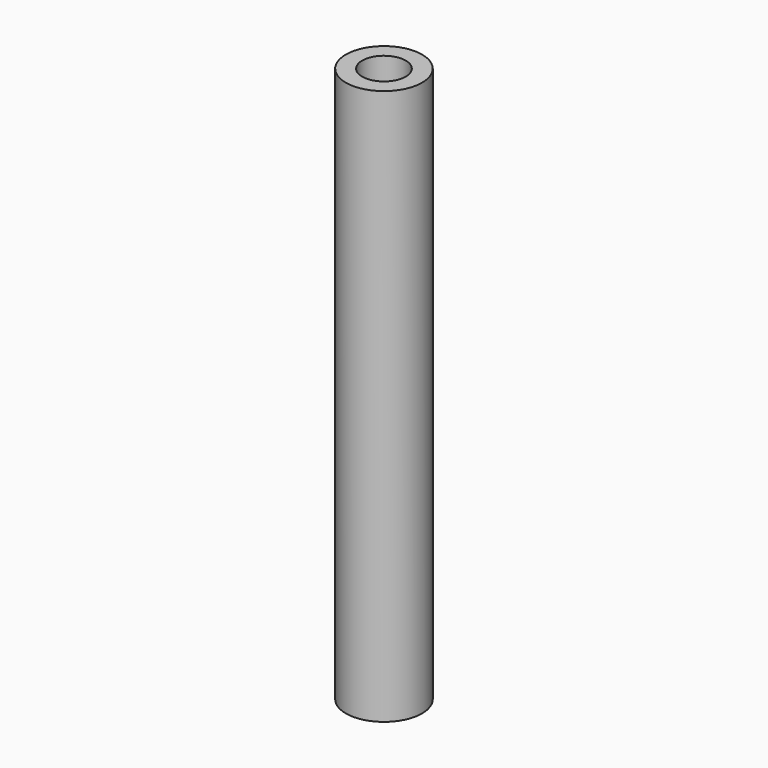
from build123d import *

# Parameters (mm, degrees)
F3_D = 5


with BuildPart() as f1:
    # F0 (on Front) → F1 (revolve)
    with BuildSketch(Plane.XZ):
        Polygon((-44.183169, 57.178222), (-48.081685, 57.178222), (-48.081685, -75.371288), (-38.985152, -75.371288), (-38.985152, -71.472771), (-44.183169, -71.472771), align=None)
    revolve(axis=Axis((-38.985152, 0, -73.42203), (0, 0, 1)))

    # F3 (through all)
    with Locations(Plane(origin=(0, 0, -75.371288), x_dir=(1, 0, 0), z_dir=(0, 0, -1))):
        with Locations((-38.985152, 0)):
            Hole(F3_D / 2)


solid = f1.part
